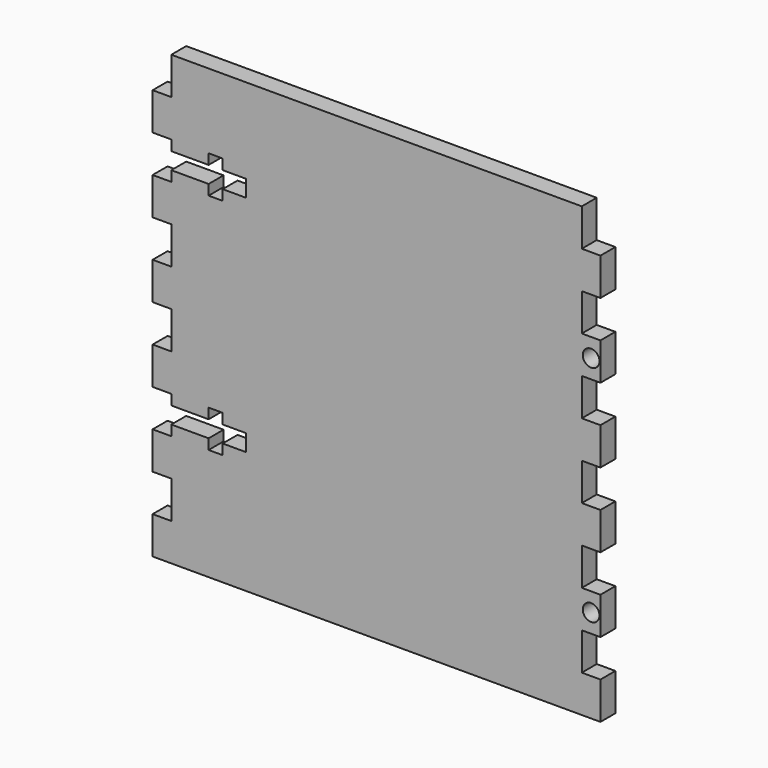
from build123d import *

# Parameters (mm, degrees)
F0_R     = 1.4224
F1_DEPTH = 3.175


with BuildPart() as f1:
    # F0 (on Front) → F1 (new body)
    with BuildSketch(Plane.XZ):
        Polygon((-28.575, 38.1), (-34.925, 38.1), (-34.925, 36.3474), (-34.925, 33.5026), (-34.925, 31.75), (-38.1, 31.75), (-38.1, 25.4), (-34.925, 25.4), (-34.925, 23.6474), (-28.575, 23.6474), (-28.575, 25.4), (-26.1874, 25.4), (-26.1874, 23.6474), (-22.225, 23.6474), (-22.225, 20.8026), (-26.1874, 20.8026), (-26.1874, 19.05), (-28.575, 19.05), (-28.575, 20.8026), (-34.925, 20.8026), (-34.925, 19.05), (-38.1, 19.05), (-38.1, 12.7), (-34.925, 12.7), (-34.925, 10.9474), (-34.925, 8.1026), (-34.925, 6.35), (-38.1, 6.35), (-38.1, 0), (-34.925, 0), (-34.925, -1.7526), (-34.925, -4.5974), (-34.925, -6.35), (-38.1, -6.35), (-38.1, -12.7), (-34.925, -12.7), (-34.925, -14.4526), (-28.575, -14.4526), (-28.575, -12.7), (-26.1874, -12.7), (-26.1874, -14.4526), (-22.225, -14.4526), (-22.225, -17.2974), (-26.1874, -17.2974), (-26.1874, -19.05), (-28.575, -19.05), (-28.575, -17.2974), (-34.925, -17.2974), (-34.925, -19.05), (-38.1, -19.05), (-38.1, -25.4), (-34.925, -25.4), (-34.925, -27.1526), (-34.925, -29.9974), (-34.925, -31.75), (-38.1, -31.75), (-38.1, -38.1), (-34.925, -38.1), (34.925, -38.1), (38.1, -38.1), (38.1, -31.75), (34.925, -31.75), (34.925, -25.4), (38.1, -25.4), (38.1, -19.05), (34.925, -19.05), (34.925, -12.7), (38.1, -12.7), (38.1, -6.35), (34.925, -6.35), (34.925, 0), (38.1, 0), (38.1, 6.35), (34.925, 6.35), (34.925, 12.7), (38.1, 12.7), (38.1, 19.05), (34.925, 19.05), (34.925, 25.4), (38.1, 25.4), (38.1, 31.75), (34.925, 31.75), (34.925, 38.1), (-26.19375, 38.1), align=None)
        with Locations((36.5125, -22.225)):
            Circle(F0_R, mode=Mode.SUBTRACT)
        with Locations((36.5125, 15.875)):
            Circle(F0_R, mode=Mode.SUBTRACT)
        Polygon((-28.575, 38.1), (-34.925, 38.1), (-34.925, 36.3474), (-34.925, 33.5026), (-34.925, 31.75), (-38.1, 31.75), (-38.1, 25.4), (-34.925, 25.4), (-34.925, 23.6474), (-28.575, 23.6474), (-28.575, 25.4), (-26.1874, 25.4), (-26.1874, 23.6474), (-22.225, 23.6474), (-22.225, 20.8026), (-26.1874, 20.8026), (-26.1874, 19.05), (-28.575, 19.05), (-28.575, 20.8026), (-34.925, 20.8026), (-34.925, 19.05), (-38.1, 19.05), (-38.1, 12.7), (-34.925, 12.7), (-34.925, 10.9474), (-34.925, 8.1026), (-34.925, 6.35), (-38.1, 6.35), (-38.1, 0), (-34.925, 0), (-34.925, -1.7526), (-34.925, -4.5974), (-34.925, -6.35), (-38.1, -6.35), (-38.1, -12.7), (-34.925, -12.7), (-34.925, -14.4526), (-28.575, -14.4526), (-28.575, -12.7), (-26.1874, -12.7), (-26.1874, -14.4526), (-22.225, -14.4526), (-22.225, -17.2974), (-26.1874, -17.2974), (-26.1874, -19.05), (-28.575, -19.05), (-28.575, -17.2974), (-34.925, -17.2974), (-34.925, -19.05), (-38.1, -19.05), (-38.1, -25.4), (-34.925, -25.4), (-34.925, -27.1526), (-34.925, -29.9974), (-34.925, -31.75), (-38.1, -31.75), (-38.1, -38.1), (-34.925, -38.1), (34.925, -38.1), (38.1, -38.1), (38.1, -31.75), (34.925, -31.75), (34.925, -25.4), (38.1, -25.4), (38.1, -19.05), (34.925, -19.05), (34.925, -12.7), (38.1, -12.7), (38.1, -6.35), (34.925, -6.35), (34.925, 0), (38.1, 0), (38.1, 6.35), (34.925, 6.35), (34.925, 12.7), (38.1, 12.7), (38.1, 19.05), (34.925, 19.05), (34.925, 25.4), (38.1, 25.4), (38.1, 31.75), (34.925, 31.75), (34.925, 38.1), (-26.19375, 38.1), align=None)
        with Locations((36.5125, -22.225)):
            Circle(F0_R, mode=Mode.SUBTRACT)
        with Locations((36.5125, 15.875)):
            Circle(F0_R, mode=Mode.SUBTRACT)
    extrude(amount=F1_DEPTH)


solid = f1.part
